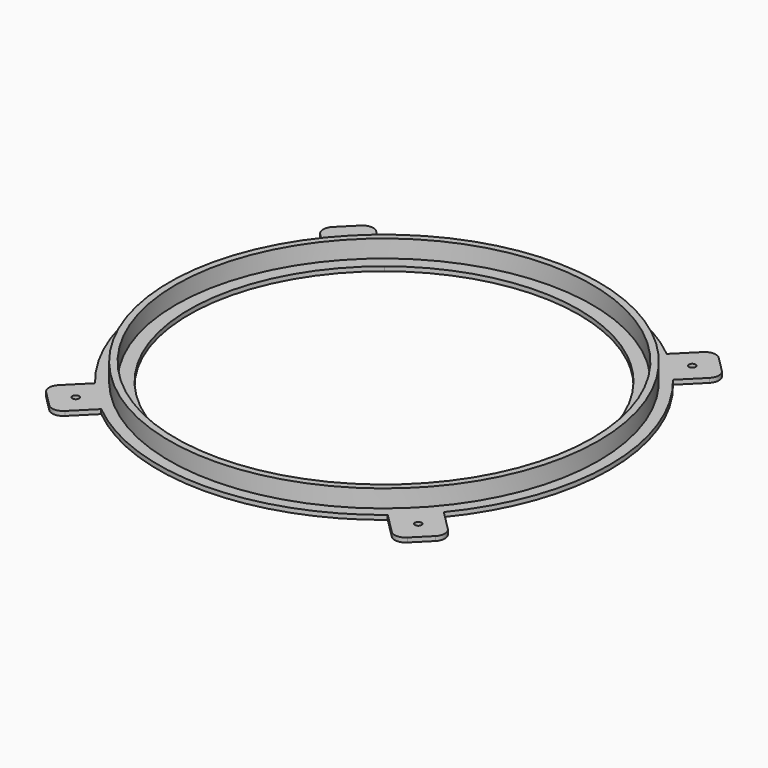
from build123d import *

# Parameters (mm, degrees)
SKETCH_R        = 102.5
SKETCH_R_2      = 88.5
PAD_DEPTH       = 2
SKETCH001_R     = 97.5
SKETCH001_R_2   = 94.5
PAD001_DEPTH    = 8
PAD002_DEPTH    = 2
PAD003_DEPTH    = 2
SKETCH004_R     = 1.5
POCKET_DEPTH    = 2
SKETCH005_R     = 88.5
POCKET001_DEPTH = 2
FILLET_R        = 5
FILLET001_R     = 5
FILLET002_R     = 5
FILLET003_R     = 5


with BuildPart() as part:
    # Sketch → Pad (new body)
    with BuildSketch(Plane.XY):
        Circle(SKETCH_R)
        Circle(SKETCH_R_2, mode=Mode.SUBTRACT)
    extrude(amount=PAD_DEPTH)

    # Sketch001 (on Face4 of Pad) → Pad001 (join)
    with BuildSketch(Plane.XY.offset(2)):
        Circle(SKETCH001_R)
        Circle(SKETCH001_R_2, mode=Mode.SUBTRACT)
    extrude(amount=PAD001_DEPTH)

    # Sketch002 → Pad002 (join)
    with BuildSketch(Plane.XY):
        Polygon((-91.923836, 77.781784), (-77.781703, 91.923922), (91.923897, -77.781733), (77.781764, -91.923871), align=None)
    extrude(amount=PAD002_DEPTH)

    # Sketch003 → Pad003 (join)
    with BuildSketch(Plane.XY):
        Polygon((77.781763, 91.923871), (91.923897, 77.781733), (-77.781703, -91.923922), (-91.923836, -77.781784), align=None)
    extrude(amount=PAD003_DEPTH)

    # Sketch004 (on Face30 of Pad003) → Pocket (cut)
    with BuildSketch(Plane.XY.offset(2)):
        with Locations((77.781762, -77.781734)):
            Circle(SKETCH004_R)
        with Locations((-77.781701, -77.781785)):
            Circle(SKETCH004_R)
        with Locations((-77.781701, 77.781785)):
            Circle(SKETCH004_R)
        with Locations((77.781762, 77.781734)):
            Circle(SKETCH004_R)
    extrude(amount=-POCKET_DEPTH, mode=Mode.SUBTRACT)

    # Sketch005 (on Face36 of Pocket) → Pocket001 (cut)
    with BuildSketch(Plane.XY.offset(2)):
        Circle(SKETCH005_R)
    extrude(amount=-POCKET001_DEPTH, mode=Mode.SUBTRACT)

    # Fillet
    fillet_edges = [part.edges().sort_by_distance(p)[0] for p in [
        (91.923897, -77.781733, 1),
        (77.781764, -91.923871, 1),
    ]]
    fillet(fillet_edges, radius=FILLET_R)

    # Fillet001
    fillet001_edges = [part.edges().sort_by_distance(p)[0] for p in [
        (-77.781703, -91.923922, 1),
    ]]
    fillet(fillet001_edges, radius=FILLET001_R)

    # Fillet002
    fillet002_edges = [part.edges().sort_by_distance(p)[0] for p in [
        (-91.923836, -77.781784, 1),
    ]]
    fillet(fillet002_edges, radius=FILLET002_R)

    # Fillet003
    fillet003_edges = [part.edges().sort_by_distance(p)[0] for p in [
        (91.923897, 77.781733, 1),
        (77.781763, 91.923871, 1),
        (-77.781703, 91.923922, 1),
        (-91.923836, 77.781784, 1),
    ]]
    fillet(fillet003_edges, radius=FILLET003_R)


solid = part.part
